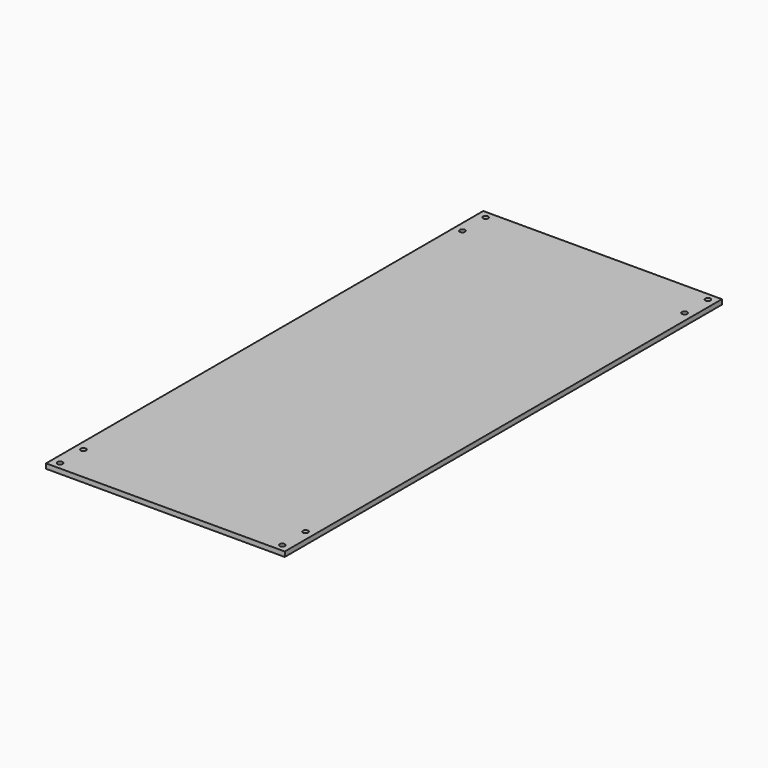
from build123d import *

# Parameters (mm, degrees)
F0_W     = 156.274948
F0_H     = 357.780718
F0_R     = 1.7272
F1_DEPTH = 3.175


with BuildPart() as f1:
    # F0 (on Top) → F1 (new body)
    with BuildSketch(Plane.XY):
        Rectangle(F0_W, F0_H)
        with Locations((-72.739974, -174.127859)):
            Circle(F0_R, mode=Mode.SUBTRACT)
        with Locations((-72.739974, -155.077859)):
            Circle(F0_R, mode=Mode.SUBTRACT)
        with Locations((72.739974, -174.127859)):
            Circle(F0_R, mode=Mode.SUBTRACT)
        with Locations((72.739974, -155.077859)):
            Circle(F0_R, mode=Mode.SUBTRACT)
        with Locations((-72.739974, 155.077859)):
            Circle(F0_R, mode=Mode.SUBTRACT)
        with Locations((-72.739974, 174.127859)):
            Circle(F0_R, mode=Mode.SUBTRACT)
        with Locations((72.739974, 155.077859)):
            Circle(F0_R, mode=Mode.SUBTRACT)
        with Locations((72.739974, 174.127859)):
            Circle(F0_R, mode=Mode.SUBTRACT)
    extrude(amount=F1_DEPTH)


solid = f1.part
